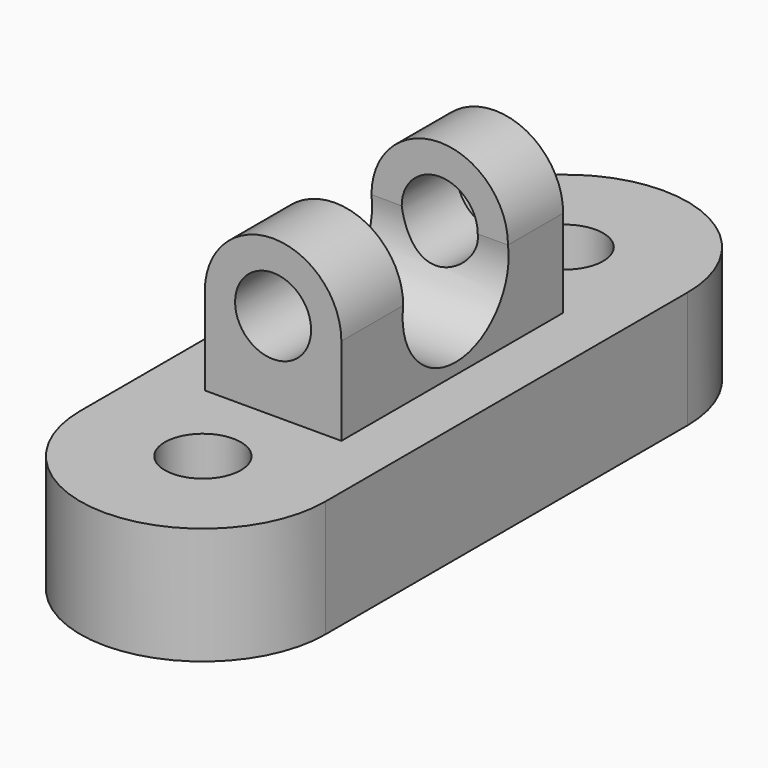
from build123d import *

# Parameters (mm, degrees)
F1_DEPTH  = 25.4
F3_D      = 16.51
F4_W      = 29.644534
F4_H      = 60.19656
F5_DEPTH  = 38.1
F7_DEPTH  = 67.056
F9_D      = 16.51
F11_DEPTH = 41.44285


with BuildPart() as f1:
    # F0 (on Top) → F1 (new body)
    with BuildSketch(Plane.XY):
        with BuildLine():
            Line((26.619583, -49.155481), (26.619583, 49.155481))
            ThreePointArc((26.619583, 49.155481), (0, 75.775065), (-26.619583, 49.155481))
            Line((-26.619583, 49.155481), (-26.619583, -49.155481))
            ThreePointArc((-26.619583, -49.155481), (0, -75.775065), (26.619583, -49.155481))
        make_face()
    extrude(amount=F1_DEPTH)

    # F3 (through all)
    with Locations(Plane.XY.offset(25.4)):
        with Locations((0, 49.155481), (0, -49.155481)):
            Hole(F3_D / 2)

    # F4 (on face) → F5 (join)
    with BuildSketch(Plane.XY.offset(25.4)):
        Rectangle(F4_W, F4_H)
    extrude(amount=F5_DEPTH)

    # F6 (on face) → F7 (cut)
    with BuildSketch(Plane.XZ.offset(30.09828)):
        with BuildLine():
            Line((14.822267, 44.45), (14.822267, 63.5))
            Line((14.822267, 63.5), (-14.822267, 63.5))
            Line((-14.822267, 63.5), (-14.822267, 44.45))
            ThreePointArc((-14.822267, 44.45), (0, 59.272267), (14.822267, 44.45))
        make_face()
    extrude(amount=-F7_DEPTH, mode=Mode.SUBTRACT)

    # F9 (through all)
    with Locations(Plane.XZ.offset(30.09828)):
        with Locations((0, 44.45)):
            Hole(F9_D / 2)

    # F10 (on face) → F11 (cut, through all)
    with BuildSketch(Plane.YZ.offset(14.822267)):
        with BuildLine():
            Line((-13.309792, 65.187737), (-13.309792, 44.45))
            ThreePointArc((-13.309792, 44.45), (0.907487, 27.818035), (15.124765, 44.45))
            Line((15.124765, 44.45), (15.124765, 65.187737))
            Line((15.124765, 65.187737), (-13.309792, 65.187737))
        make_face()
    extrude(amount=-F11_DEPTH, mode=Mode.SUBTRACT)


solid = f1.part
